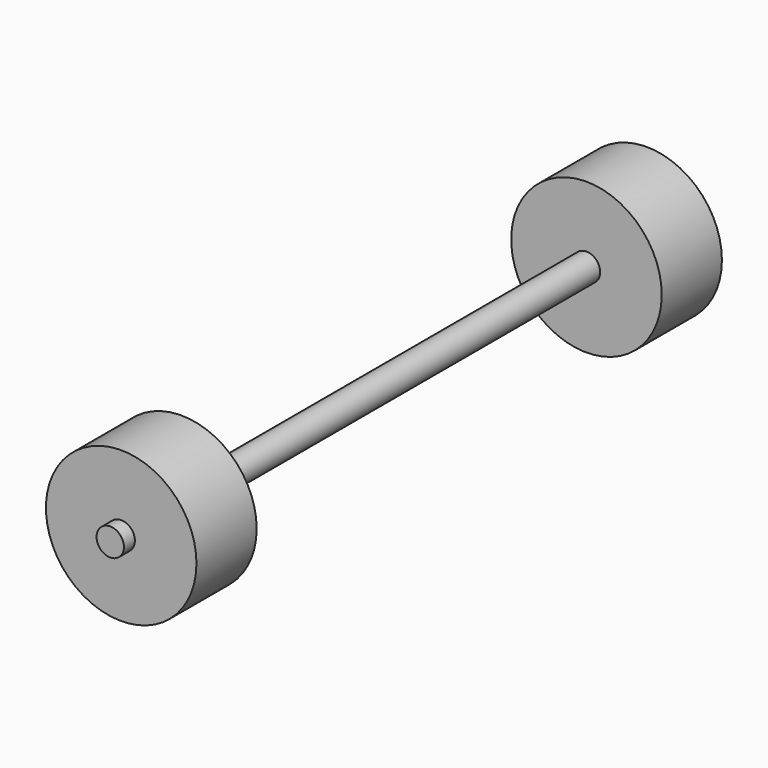
from build123d import *

# Parameters (mm, degrees)
CYLINDER002001001002_R             = 11
CYLINDER002001001002_DEPTH         = 11
CYLINDER002001001002_ROLL_ANGLE    = 90
CYLINDER002001001002001_R          = 11
CYLINDER002001001002001_DEPTH      = 11
CYLINDER002001001002001_ROLL_ANGLE = 90
CYLINDER002001002001_R             = 2
CYLINDER002001002001_DEPTH         = 100
CYLINDER002001002001_ROLL_ANGLE    = -90


with BuildPart() as wheel006:
    # Cylinder002001001002 → Cylinder002001001002 (new body)
    with BuildSketch(Plane.XY):
        Circle(CYLINDER002001001002_R)
    extrude(amount=CYLINDER002001001002_DEPTH)


with BuildPart() as wheel006_1:
    # Cylinder002001001002 roll: moved
    add(wheel006.part.rotate(Axis((0, 0, 0), (1, 0, 0)), CYLINDER002001001002_ROLL_ANGLE))


with BuildPart() as wheel006_2:
    # Cylinder002001001002 placement: moved
    add(wheel006_1.part.moved(Location((20, 78, 14))))


with BuildPart() as wheel007:
    # Cylinder002001001002001 → Cylinder002001001002001 (new body)
    with BuildSketch(Plane.XY):
        Circle(CYLINDER002001001002001_R)
    extrude(amount=CYLINDER002001001002001_DEPTH)


with BuildPart() as wheel007_1:
    # Cylinder002001001002001 roll: moved
    add(wheel007.part.rotate(Axis((0, 0, 0), (1, 0, 0)), CYLINDER002001001002001_ROLL_ANGLE))


with BuildPart() as wheel007_2:
    # Cylinder002001001002001 placement: moved
    add(wheel007_1.part.moved(Location((20, -7, 14))))


with BuildPart() as obj1:
    # Cylinder002001002001 → Cylinder002001002001 (new body)
    with BuildSketch(Plane.XY):
        Circle(CYLINDER002001002001_R)
    extrude(amount=CYLINDER002001002001_DEPTH)


with BuildPart() as obj1_1:
    # Cylinder002001002001 roll: moved
    add(obj1.part.rotate(Axis((0, 0, 0), (1, 0, 0)), CYLINDER002001002001_ROLL_ANGLE))


with BuildPart() as obj1_2:
    # Cylinder002001002001 placement: moved
    add(obj1_1.part.moved(Location((20, -20, 14))))

    # Fusion002001002002002001: union Wheel006, Wheel007
    add(wheel006_2.part)
    add(wheel007_2.part)


with BuildPart() as obj1_3:
    # Fusion002001002002002001 placement: moved
    add(obj1_2.part.moved(Location((64, 0, -24))))


solid = obj1_3.part
